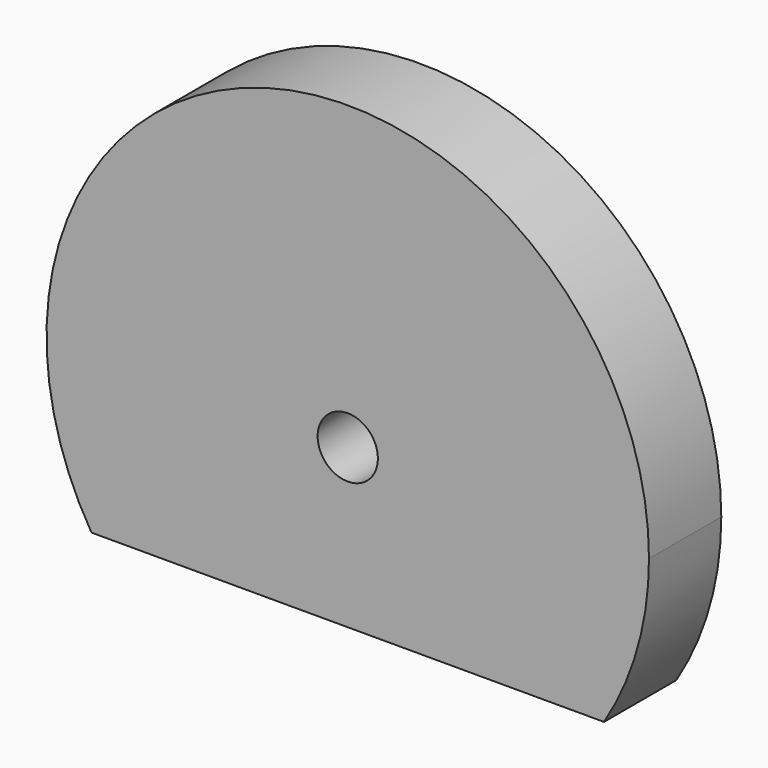
from build123d import *

# Parameters (mm, degrees)
F0_R     = 5
F1_DEPTH = 15


with BuildPart() as f1:
    # F0 (on Front) → F1 (new body)
    with BuildSketch(Plane.XZ):
        with BuildLine():
            ThreePointArc((42.533348, -26.285248), (48.097128, -13.662587), (50, 0))
            ThreePointArc((50, 0), (-13.662587, 48.097128), (-42.533348, -26.285248))
            Line((-42.533348, -26.285248), (42.533348, -26.285248))
        make_face()
        Circle(F0_R, mode=Mode.SUBTRACT)
    extrude(amount=F1_DEPTH)


solid = f1.part
